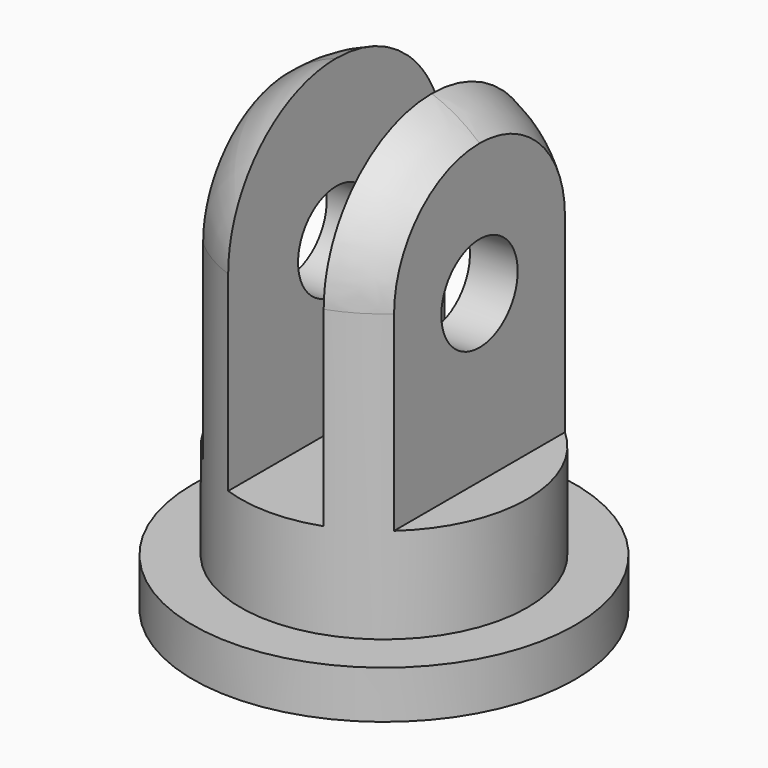
from build123d import *

# Parameters (mm, degrees)
F0_R     = 4
F1_DEPTH = 1
F2_R     = 3
F3_DEPTH = 6
F6_W     = 2
F6_H     = 8.928134
F6_W_2   = 2.979646
F7_DEPTH = 12.5
F8_R     = 1
F9_DEPTH = 6.001


with BuildPart() as f1:
    # F0 (on Top) → F1 (new body)
    with BuildSketch(Plane.XY):
        Circle(F0_R)
    extrude(amount=F1_DEPTH)

    # F2 (on face) → F3 (join)
    with BuildSketch(Plane.XY.offset(1)):
        Circle(F2_R)
    extrude(amount=F3_DEPTH)

    # F4 (on face) → F5 (revolve)
    with BuildSketch(Plane.XY.offset(7)):
        with BuildLine():
            ThreePointArc((0, -3), (2.12132, -2.12132), (3, 0))
            ThreePointArc((3, 0), (2.12132, 2.12132), (0, 3))
            Line((0, 3), (0, -3))
        make_face()
    revolve(axis=Axis((0, 0, 7), (0, -1, 0)))

    # F6 (on Front) → F7 (cut, symmetric)
    with BuildSketch(Plane.XZ):
        with Locations((0, 7.464067)):
            Rectangle(F6_W, F6_H)
        with Locations((-3.489823, 7.464067)):
            Rectangle(F6_W_2, F6_H)
        with Locations((3.489823, 7.464067)):
            Rectangle(F6_W_2, F6_H)
    extrude(amount=F7_DEPTH, both=True, mode=Mode.SUBTRACT)

    # F8 (on face) → F9 (cut, through all)
    with BuildSketch(Plane(origin=(-2, 0, 0), x_dir=(0, -1, 0), z_dir=(-1, 0, 0))):
        with Locations((0, 6.470004)):
            Circle(F8_R)
    extrude(amount=-F9_DEPTH, mode=Mode.SUBTRACT)


solid = f1.part
